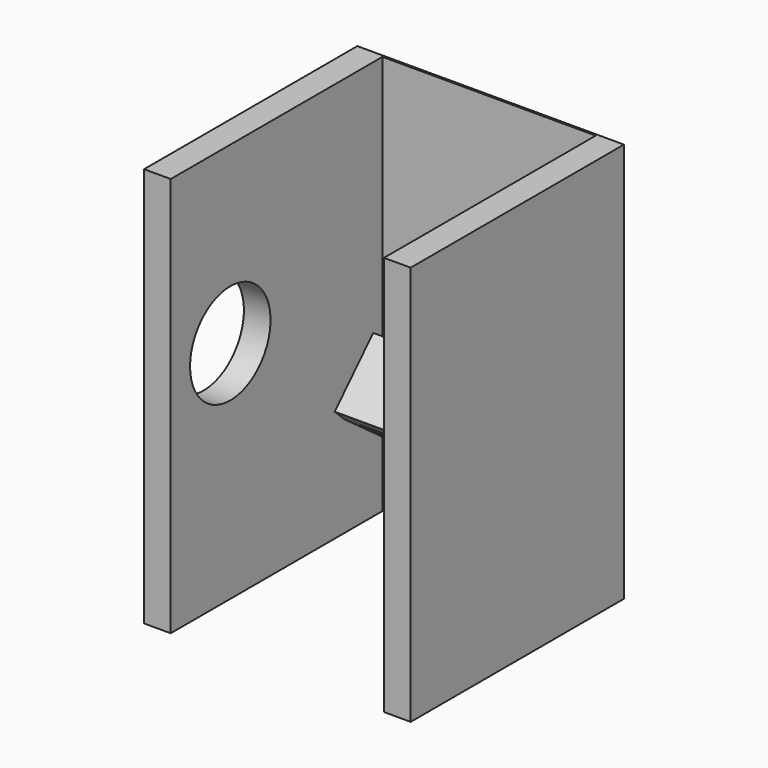
from build123d import *

# Parameters (mm, degrees)
F0_W      = 200
F0_H      = 300
F1_DEPTH  = 1.5
F2_W      = 20
F2_H      = 300
F3_DEPTH  = 200
F5_DEPTH  = 12
F6_W      = 160
F6_H      = 51.9561140742
F7_DEPTH  = 12
F8_W      = 20
F8_H      = 300
F9_DEPTH  = 200
F10_R     = 43.6696111293
F11_DEPTH = 30
F12_R     = 37.7325868248
F13_DEPTH = 25


with BuildPart() as f1:
    # F0 (on Front) → F1 (new body)
    with BuildSketch(Plane.XZ):
        with Locations((100, 150)):
            Rectangle(F0_W, F0_H)
    extrude(amount=F1_DEPTH)

    # F2 (on Front) → F3 (join)
    with BuildSketch(Plane.XZ):
        with Locations((10, 150)):
            Rectangle(F2_W, F2_H)
    extrude(amount=F3_DEPTH)

    # F4 (on face) → F5 (join)
    with BuildSketch(Plane.YZ.offset(20)):
        Polygon((-1.5, 112.8666251898), (-37.5698320568, 75.4713714123), (-1.5, 49.0747205913), align=None)
    extrude(amount=F5_DEPTH)

    # F10 (on face) → F11 (cut)
    with BuildSketch(Plane.YZ.offset(200)):
        with Locations((-115.351036191, 228.2001972198)):
            Circle(F10_R)
    extrude(amount=F11_DEPTH, mode=Mode.SUBTRACT)

    # F12 (on face) → F13 (cut)
    with BuildSketch(Plane(origin=(0, 0, 0), x_dir=(0, -1, 0), z_dir=(-1, 0, 0))):
        with Locations((144.1290527582, 168.8124984503)):
            Circle(F12_R)
    extrude(amount=-F13_DEPTH, mode=Mode.SUBTRACT)


with BuildPart() as f7:
    # F6 (on face) → F7 (new body)
    with BuildSketch(Plane(origin=(0, -57.1736403414, 55.1472017667), x_dir=(1, 0, 0), z_dir=(0, -0.7197469334, 0.6942365244))):
        with Locations((100, 54.2159955426)):
            Rectangle(F6_W, F6_H)
    extrude(amount=F7_DEPTH)


with BuildPart() as f9:
    # F8 (on Front) → F9 (new body)
    with BuildSketch(Plane.XZ):
        with Locations((190, 150)):
            Rectangle(F8_W, F8_H)
    extrude(amount=F9_DEPTH)


solid = Compound([f1.part, f7.part, f9.part])
